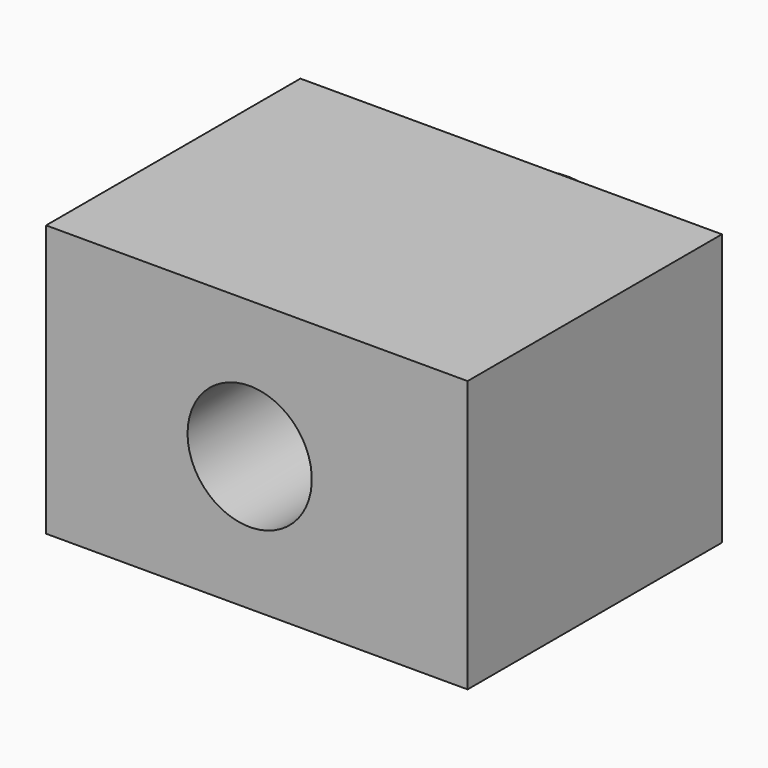
from build123d import *

# Parameters (mm, degrees)
F0_W     = 67.357816
F0_H     = 43.378917
F1_DEPTH = 50.8
F2_R     = 9.927663
F3_DEPTH = 50.8
F2_R_2   = 13.600689
F4_DEPTH = 12.7


with BuildPart() as f1:
    # F0 (on Front) → F1 (new body)
    with BuildSketch(Plane.XZ):
        with Locations((-33.678908, 23.978901)):
            Rectangle(F0_W, F0_H)
    extrude(amount=F1_DEPTH)

    # F2 (on face) → F3 (cut)
    with BuildSketch(Plane(origin=(0, 0, 0), x_dir=(-1, 0, 0), z_dir=(0, 1, 0))):
        with Locations((34.82363, 23.737906)):
            Circle(F2_R)
    extrude(amount=-F3_DEPTH, mode=Mode.SUBTRACT)

    # F2 (on face) → F4 (join)
    with BuildSketch(Plane(origin=(0, 0, 0), x_dir=(-1, 0, 0), z_dir=(0, 1, 0))):
        with Locations((34.82363, 23.737906)):
            Circle(F2_R_2)
        with Locations((34.82363, 23.737906)):
            Circle(F2_R, mode=Mode.SUBTRACT)
    extrude(amount=F4_DEPTH)


solid = f1.part
